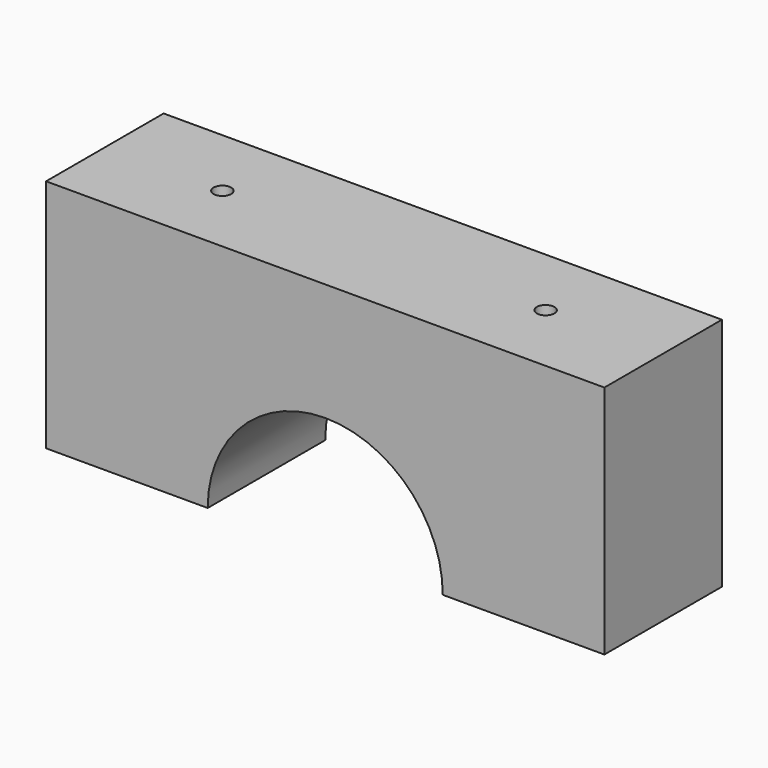
from build123d import *

# Parameters (mm, degrees)
F1_DEPTH = 25
F2_R     = 1.5
F3_DEPTH = 40


with BuildPart() as f1:
    # F0 (on Front) → F1 (new body)
    with BuildSketch(Plane.XZ):
        with BuildLine():
            Line((45.593201, 59.244739), (-49.406799, 59.244739))
            Line((-49.406799, 59.244739), (-49.406799, 19.244739))
            Line((-49.406799, 19.244739), (-21.906799, 19.244739))
            ThreePointArc((-21.906799, 19.244739), (-1.906799, 39.244739), (18.093201, 19.244739))
            Line((18.093201, 19.244739), (45.593201, 19.244739))
            Line((45.593201, 19.244739), (45.593201, 59.244739))
        make_face()
    extrude(amount=F1_DEPTH)

    # F2 (on face) → F3 (cut)
    with BuildSketch(Plane.XY.offset(59.244739)):
        with Locations((-29.406799, -12.5)):
            Circle(F2_R)
        with Locations((25.593201, -12.5)):
            Circle(F2_R)
    extrude(amount=-F3_DEPTH, mode=Mode.SUBTRACT)


solid = f1.part
